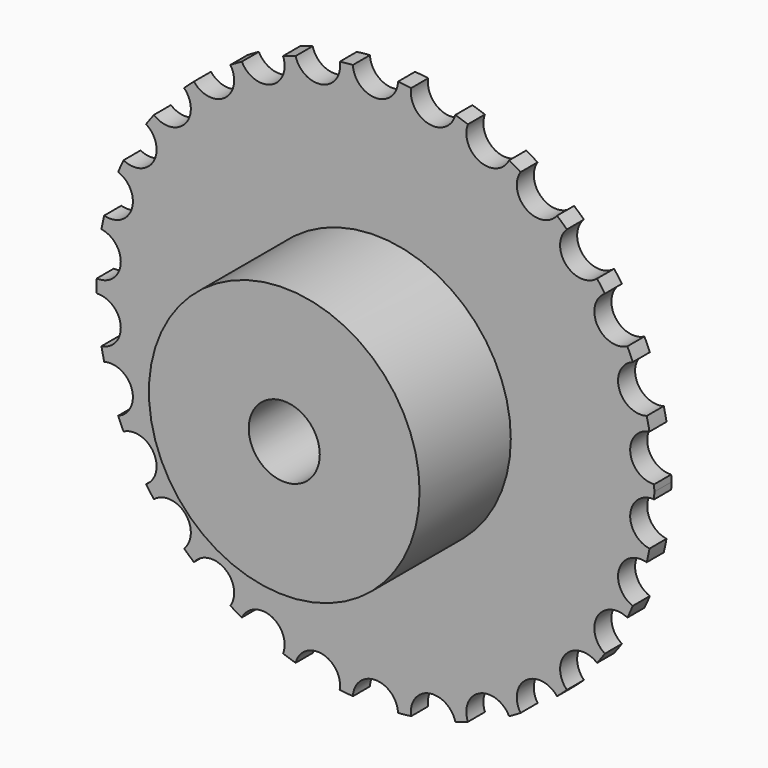
from build123d import *

# Parameters (mm, degrees)
F0_R     = 19.05
F0_R_2   = 5
F1_DEPTH = 3
F2_DEPTH = 19.05


with BuildPart() as f1:
    # F0 (on Front) → F1 (new body)
    with BuildSketch(Plane.XZ):
        with BuildLine():
            ThreePointArc((39.231894, -0.933563), (39.240223, -0.466814), (39.243, 0))
            ThreePointArc((39.243, 0), (39.240223, 0.466814), (39.231894, 0.933563))
            ThreePointArc((39.231894, 0.933563), (35.870416, 3.770133), (38.568682, 7.243607))
            ThreePointArc((38.568682, 7.243607), (38.385446, 8.159078), (38.180484, 9.069932))
            ThreePointArc((38.180484, 9.069932), (34.302706, 11.145625), (36.219833, 15.104197))
            ThreePointArc((36.219833, 15.104197), (35.850264, 15.961566), (35.460404, 16.809901))
            ThreePointArc((35.460404, 16.809901), (31.235804, 18.034), (32.288003, 22.304661))
            ThreePointArc((32.288003, 22.304661), (31.748254, 23.066457), (31.190535, 23.815197))
            ThreePointArc((31.190535, 23.815197), (26.803748, 24.134203), (26.945033, 28.530304))
            ThreePointArc((26.945033, 28.530304), (26.258692, 29.163232), (25.557489, 29.779654))
            ThreePointArc((25.557489, 29.779654), (21.200238, 29.179625), (20.424436, 33.509036))
            ThreePointArc((20.424436, 33.509036), (19.6215, 33.985435), (18.807458, 34.442598))
            ThreePointArc((18.807458, 34.442598), (14.670177, 32.949758), (13.011193, 37.023262))
            ThreePointArc((13.011193, 37.023262), (12.126754, 37.322311), (11.235451, 37.600235))
            ThreePointArc((11.235451, 37.600235), (7.498959, 35.279828), (5.029298, 38.919394))
            ThreePointArc((5.029298, 38.919394), (4.10201, 39.028023), (3.172401, 39.114561))
            ThreePointArc((3.172401, 39.114561), (0, 36.068), (-3.172401, 39.114561))
            ThreePointArc((-3.172401, 39.114561), (-4.10201, 39.028023), (-5.029298, 38.919394))
            ThreePointArc((-5.029298, 38.919394), (-4.995404, 38.653376), (-4.984078, 38.385446))
            ThreePointArc((-4.984078, 38.385446), (-7.763388, 35.2352), (-11.235451, 37.600235))
            ThreePointArc((-11.235451, 37.600235), (-12.126754, 37.322311), (-13.011193, 37.023262))
            ThreePointArc((-13.011193, 37.023262), (-12.843228, 36.44742), (-12.786566, 35.850264))
            ThreePointArc((-12.786566, 35.850264), (-15.238753, 32.758636), (-18.807458, 34.442598))
            ThreePointArc((-18.807458, 34.442598), (-19.6215, 33.985435), (-20.424436, 33.509036))
            ThreePointArc((-20.424436, 33.509036), (-20.027621, 32.668093), (-19.891457, 31.748254))
            ThreePointArc((-19.891457, 31.748254), (-22.02444, 28.749116), (-25.557489, 29.779654))
            ThreePointArc((-25.557489, 29.779654), (-26.258692, 29.163232), (-26.945033, 28.530304))
            ThreePointArc((-26.945033, 28.530304), (-26.237194, 27.491138), (-25.988232, 26.258692))
            ThreePointArc((-25.988232, 26.258692), (-27.813429, 23.384905), (-31.190535, 23.815197))
            ThreePointArc((-31.190535, 23.815197), (-31.748254, 23.066457), (-32.288003, 22.304661))
            ThreePointArc((-32.288003, 22.304661), (-31.204251, 21.153048), (-30.810435, 19.6215))
            ThreePointArc((-30.810435, 19.6215), (-32.342633, 16.904548), (-35.460404, 16.809901))
            ThreePointArc((-35.460404, 16.809901), (-35.850264, 15.961566), (-36.219833, 15.104197))
            ThreePointArc((-36.219833, 15.104197), (-34.716453, 13.940625), (-34.147311, 12.126754))
            ThreePointArc((-34.147311, 12.126754), (-35.40451, 9.596406), (-38.180484, 9.069932))
            ThreePointArc((-38.180484, 9.069932), (-38.385446, 8.159078), (-38.568682, 7.243607))
            ThreePointArc((-38.568682, 7.243607), (-36.626041, 6.178331), (-35.853023, 4.10201))
            ThreePointArc((-35.853023, 4.10201), (-36.856234, 1.785988), (-39.231894, 0.933563))
            ThreePointArc((-39.231894, 0.933563), (-39.243, 0), (-39.231894, -0.933563))
            ThreePointArc((-39.231894, -0.933563), (-36.856234, -1.785988), (-35.853023, -4.10201))
            ThreePointArc((-35.853023, -4.10201), (-36.626041, -6.178331), (-38.568682, -7.243607))
            ThreePointArc((-38.568682, -7.243607), (-38.385446, -8.159078), (-38.180484, -9.069932))
            ThreePointArc((-38.180484, -9.069932), (-35.40451, -9.596406), (-34.147311, -12.126754))
            ThreePointArc((-34.147311, -12.126754), (-34.716453, -13.940625), (-36.219833, -15.104197))
            ThreePointArc((-36.219833, -15.104197), (-35.850264, -15.961566), (-35.460404, -16.809901))
            ThreePointArc((-35.460404, -16.809901), (-32.342633, -16.904548), (-30.810435, -19.6215))
            ThreePointArc((-30.810435, -19.6215), (-31.204251, -21.153048), (-32.288003, -22.304661))
            ThreePointArc((-32.288003, -22.304661), (-31.748254, -23.066457), (-31.190535, -23.815197))
            ThreePointArc((-31.190535, -23.815197), (-27.813429, -23.384905), (-25.988232, -26.258692))
            ThreePointArc((-25.988232, -26.258692), (-26.237194, -27.491138), (-26.945033, -28.530304))
            ThreePointArc((-26.945033, -28.530304), (-26.258692, -29.163232), (-25.557489, -29.779654))
            ThreePointArc((-25.557489, -29.779654), (-22.02444, -28.749116), (-19.891457, -31.748254))
            ThreePointArc((-19.891457, -31.748254), (-20.027621, -32.668093), (-20.424436, -33.509036))
            ThreePointArc((-20.424436, -33.509036), (-19.6215, -33.985435), (-18.807458, -34.442598))
            ThreePointArc((-18.807458, -34.442598), (-15.238753, -32.758636), (-12.786566, -35.850264))
            ThreePointArc((-12.786566, -35.850264), (-12.843228, -36.44742), (-13.011193, -37.023262))
            ThreePointArc((-13.011193, -37.023262), (-12.126754, -37.322311), (-11.235451, -37.600235))
            ThreePointArc((-11.235451, -37.600235), (-7.763388, -35.2352), (-4.984078, -38.385446))
            ThreePointArc((-4.984078, -38.385446), (-4.995404, -38.653376), (-5.029298, -38.919394))
            ThreePointArc((-5.029298, -38.919394), (-4.10201, -39.028023), (-3.172401, -39.114561))
            ThreePointArc((-3.172401, -39.114561), (0, -36.068), (3.172401, -39.114561))
            ThreePointArc((3.172401, -39.114561), (4.10201, -39.028023), (5.029298, -38.919394))
            ThreePointArc((5.029298, -38.919394), (7.498959, -35.279828), (11.235451, -37.600235))
            ThreePointArc((11.235451, -37.600235), (12.126754, -37.322311), (13.011193, -37.023262))
            ThreePointArc((13.011193, -37.023262), (14.670177, -32.949758), (18.807458, -34.442598))
            ThreePointArc((18.807458, -34.442598), (19.6215, -33.985435), (20.424436, -33.509036))
            ThreePointArc((20.424436, -33.509036), (21.200238, -29.179625), (25.557489, -29.779654))
            ThreePointArc((25.557489, -29.779654), (26.258692, -29.163232), (26.945033, -28.530304))
            ThreePointArc((26.945033, -28.530304), (26.803748, -24.134203), (31.190535, -23.815197))
            ThreePointArc((31.190535, -23.815197), (31.748254, -23.066457), (32.288003, -22.304661))
            ThreePointArc((32.288003, -22.304661), (31.235804, -18.034), (35.460404, -16.809901))
            ThreePointArc((35.460404, -16.809901), (35.850264, -15.961566), (36.219833, -15.104197))
            ThreePointArc((36.219833, -15.104197), (34.302706, -11.145625), (38.180484, -9.069932))
            ThreePointArc((38.180484, -9.069932), (38.385446, -8.159078), (38.568682, -7.243607))
            ThreePointArc((38.568682, -7.243607), (35.870416, -3.770133), (39.231894, -0.933563))
        make_face()
        Circle(F0_R, mode=Mode.SUBTRACT)
        Circle(F0_R)
        Circle(F0_R_2, mode=Mode.SUBTRACT)
    extrude(amount=F1_DEPTH)

    # F0 (on Front) → F2 (join)
    with BuildSketch(Plane.XZ):
        Circle(F0_R)
        Circle(F0_R_2, mode=Mode.SUBTRACT)
    extrude(amount=F2_DEPTH)


with BuildPart() as f3_1:
    # F3: copy of F1
    add(f1.part)


solid = Compound([f1.part, f3_1.part])
